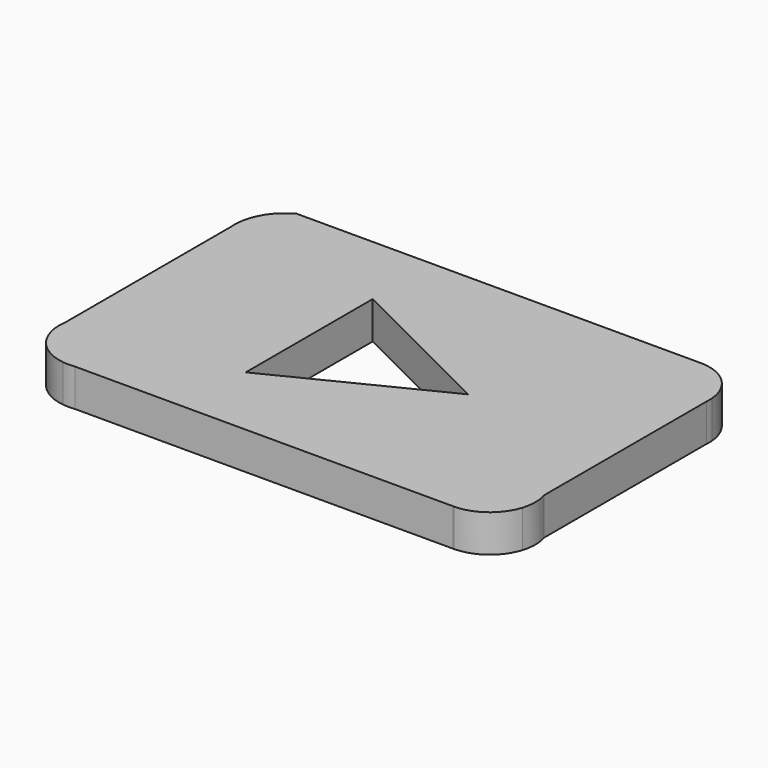
from build123d import *

# Parameters (mm, degrees)
F1_DEPTH = 7.62
F3_DEPTH = 7.62


with BuildPart() as f1:
    # F0 (on Top) → F1 (new body)
    with BuildSketch(Plane.XY):
        with BuildLine():
            ThreePointArc((48.371598, 23.222628), (45.605213, 29.067693), (39.653465, 31.5964))
            Line((39.653465, 31.5964), (-43.028224, 31.5964))
            ThreePointArc((-43.028224, 31.5964), (-46.746564, 28.170959), (-48.371598, 23.383585))
            Line((-48.371598, 23.383585), (-48.371598, 21.795344))
            Line((-48.371598, 21.795344), (-48.371598, -20.670423))
            Line((-48.371598, -20.670423), (-48.371598, -23.518627))
            ThreePointArc((-48.371598, -23.518627), (-45.597003, -28.942544), (-40.112998, -31.5964))
            Line((-40.112998, -31.5964), (-37.68485, -31.5964))
            Line((-37.68485, -31.5964), (39.372232, -31.5964))
            Line((39.372232, -31.5964), (39.65662, -31.5964))
            ThreePointArc((39.65662, -31.5964), (45.067462, -29.752844), (48.371598, -25.088232))
            Line((48.371598, -25.088232), (48.371598, -19.545501))
            Line((48.371598, -19.545501), (48.371598, 21.795344))
            Line((48.371598, 21.795344), (48.371598, 23.222628))
        make_face()
        with BuildLine():
            ThreePointArc((48.371598, 21.795344), (48.399642, 22.508986), (48.371598, 23.222628))
            Line((48.371598, 23.222628), (48.371598, 21.795344))
        make_face()
        with BuildLine():
            Line((-48.371598, 21.795344), (-48.371598, 23.383585))
            ThreePointArc((-48.371598, 23.383585), (-48.402453, 22.589464), (-48.371598, 21.795344))
        make_face()
        with BuildLine():
            ThreePointArc((48.371598, -25.088232), (48.795049, -22.316866), (48.371598, -19.545501))
            Line((48.371598, -19.545501), (48.371598, -25.088232))
        make_face()
        with BuildLine():
            Line((-48.371598, -23.518627), (-48.371598, -20.670423))
            ThreePointArc((-48.371598, -20.670423), (-48.478048, -22.094525), (-48.371598, -23.518627))
        make_face()
        with BuildLine():
            ThreePointArc((39.372232, -31.5964), (39.514426, -31.59749), (39.65662, -31.5964))
            Line((39.65662, -31.5964), (39.372232, -31.5964))
        make_face()
        with BuildLine():
            Line((-37.68485, -31.5964), (-40.112998, -31.5964))
            ThreePointArc((-40.112998, -31.5964), (-38.898924, -31.673649), (-37.68485, -31.5964))
        make_face()
    extrude(amount=F1_DEPTH)

    # F2 (on face) → F3 (cut)
    with BuildSketch(Plane.XY.offset(7.62)):
        Polygon((17.155044, 0), (-15.186432, 16.170738), (-15.186432, -16.170738), align=None)
    extrude(amount=-F3_DEPTH, mode=Mode.SUBTRACT)


solid = f1.part
